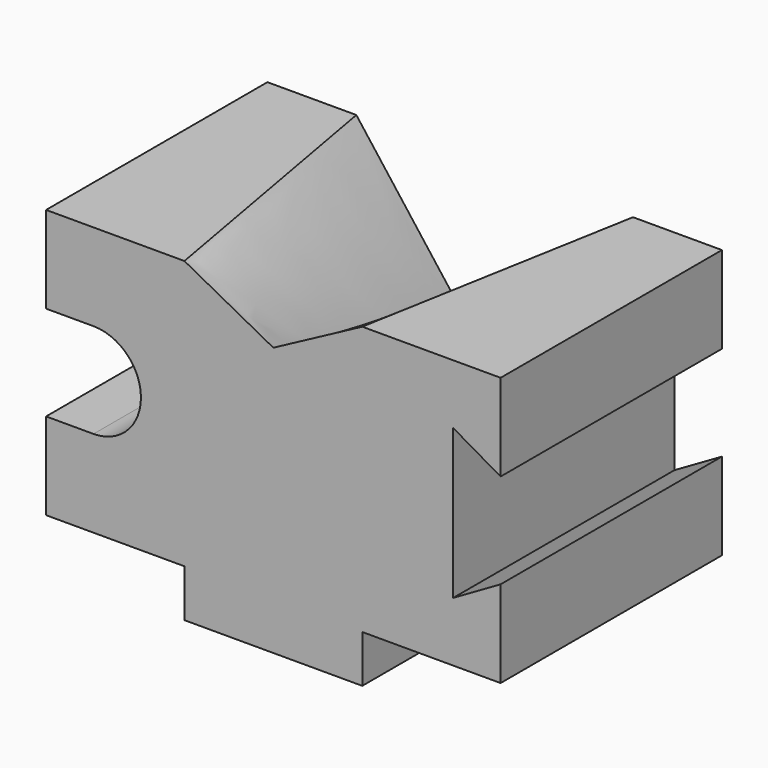
from build123d import *

# Parameters (mm, degrees)
F1_DEPTH = 70


with BuildPart() as f1:
    # F0 (on Front) → F1 (new body)
    with BuildSketch(Plane.XZ):
        with BuildLine():
            Line((0, 22), (0, 0))
            Line((0, 0), (35, 0))
            Line((35, 0), (35, -12))
            Line((35, -12), (80, -12))
            Line((80, -12), (80, 0))
            Line((80, 0), (115, 0))
            Line((115, 0), (115, 22))
            Line((115, 22), (103, 15.071797))
            Line((103, 15.071797), (103, 52.928203))
            Line((103, 52.928203), (115, 46))
            Line((115, 46), (115, 68))
            Line((115, 68), (99.032866, 68))
            Line((99.032866, 68), (54.032866, 68))
            Line((54.032866, 68), (0, 68))
            Line((0, 68), (0, 46))
            Line((0, 46), (12, 46))
            ThreePointArc((12, 46), (24, 34), (12, 22))
            Line((12, 22), (0, 22))
        make_face()
    extrude(amount=F1_DEPTH)

    # F2 (on face) → F4 section 0
    with BuildSketch(Plane.XZ.offset(70)):
        Polygon((80, 68), (35, 68), (57.5, 56), align=None)
    # F3 (on face) → F4 section 1
    with BuildSketch(Plane(origin=(0, 0, 0), x_dir=(-1, 0, 0), z_dir=(0, 1, 0))):
        Polygon((-22.5, 68), (-92.5, 68), (-57.5, 22), align=None)
    loft(mode=Mode.SUBTRACT)


solid = f1.part
